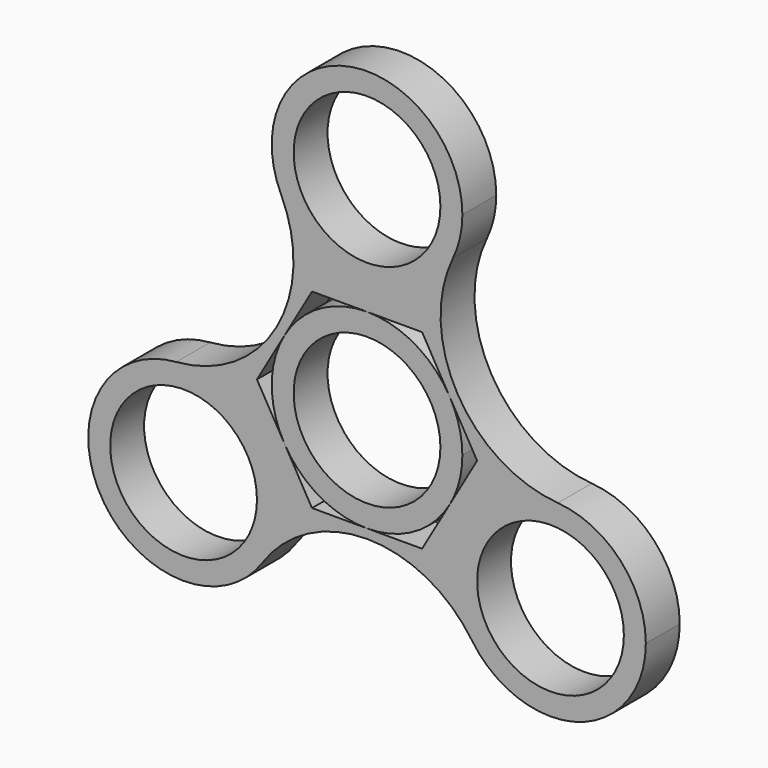
from build123d import *

# Parameters (mm, degrees)
F0_R     = 10.9982
F1_DEPTH = 6.35


with BuildPart() as f1:
    # F0 (on Front) → F1 (new body)
    with BuildSketch(Plane.XZ):
        with BuildLine():
            ThreePointArc((12.8885060581, 25.584039585), (13.9333625977, 28.5886612057), (14.2875, 31.75))
            ThreePointArc((14.2875, 31.75), (-3.1613387943, 45.6833625977), (-12.8885060581, 25.584039585))
            ThreePointArc((-12.8885060581, 25.584039585), (0, 17.4625), (12.8885060581, 25.584039585))
        make_face()
        with Locations((0, 31.75)):
            Circle(F0_R, mode=Mode.SUBTRACT)
        with BuildLine():
            ThreePointArc((-13.2088065702, -15.875), (-17.7918255655, -5.3890234274), (-28.6006812411, -1.6302461293))
            ThreePointArc((-28.6006812411, -1.6302461293), (-39.8696445267, -23.01875), (-15.7121751829, -23.9537934556))
            ThreePointArc((-15.7121751829, -23.9537934556), (-13.8489912033, -20.103881593), (-13.2088065702, -15.875))
        make_face()
        with Locations((-27.4963065702, -15.875)):
            Circle(F0_R, mode=Mode.SUBTRACT)
        with BuildLine():
            ThreePointArc((41.7838065702, -15.875), (37.9822831427, -6.1705189953), (28.6006812411, -1.6302461293))
            ThreePointArc((28.6006812411, -1.6302461293), (15.1229686136, -8.73125), (15.7121751829, -23.9537934556))
            ThreePointArc((15.7121751829, -23.9537934556), (31.7251881632, -29.5223153669), (41.7838065702, -15.875))
        make_face()
        with Locations((27.4963065702, -15.875)):
            Circle(F0_R, mode=Mode.SUBTRACT)
        with BuildLine():
            ThreePointArc((12.8885060581, 25.584039585), (0, 17.4625), (-12.8885060581, 25.584039585))
            ThreePointArc((-12.8885060581, 25.584039585), (-13.5753968602, 7.8377590316), (-28.6006812411, -1.6302461293))
            ThreePointArc((-28.6006812411, -1.6302461293), (-17.7918255655, -5.3890234274), (-13.2088065702, -15.875))
            ThreePointArc((-13.2088065702, -15.875), (-13.8489912033, -20.103881593), (-15.7121751829, -23.9537934556))
            ThreePointArc((-15.7121751829, -23.9537934556), (0, -15.6755180632), (15.7121751829, -23.9537934556))
            ThreePointArc((15.7121751829, -23.9537934556), (15.1229686136, -8.73125), (28.6006812411, -1.6302461293))
            ThreePointArc((28.6006812411, -1.6302461293), (13.5753968602, 7.8377590316), (12.8885060581, 25.584039585))
        make_face()
        Polygon((8.248891971, 14.2875), (12.373338701, 7.1437487107), (16.4977839421, 0), (12.3733387096, -7.1437486957), (8.248891971, -14.2875), (0, -14.2875), (-8.248891971, -14.2875), (-12.3733387316, -7.1437486575), (-16.4977839421, 0), (-12.3733386579, 7.1437487852), (-8.248891971, 14.2875), (0, 14.2875), align=None, mode=Mode.SUBTRACT)
    extrude(amount=F1_DEPTH)


with BuildPart() as f1b:
    # F0 (on Front) → F1, piece 2 (new body)
    with BuildSketch(Plane.XZ):
        with BuildLine():
            ThreePointArc((12.3733387096, -7.1437486957), (13.800665438, -3.6978763795), (14.2875, 0))
            ThreePointArc((14.2875, 0), (13.8006654358, 3.6978763879), (12.373338701, 7.1437487107))
            ThreePointArc((12.373338701, 7.1437487107), (7.1437506447, 12.3733375844), (0, 14.2875))
            ThreePointArc((0, 14.2875), (-7.1437506074, 12.3733376059), (-12.3733386579, 7.1437487852))
            ThreePointArc((-12.3733386579, 7.1437487852), (-14.2875, 7.37e-08), (-12.3733387316, -7.1437486575))
            ThreePointArc((-12.3733387316, -7.1437486575), (-7.1437506712, -12.373337569), (0, -14.2875))
            ThreePointArc((0, -14.2875), (7.1437506521, -12.3733375801), (12.3733387096, -7.1437486957))
        make_face()
        Circle(F0_R, mode=Mode.SUBTRACT)
    extrude(amount=F1_DEPTH)


solid = Compound([f1.part, f1b.part])
